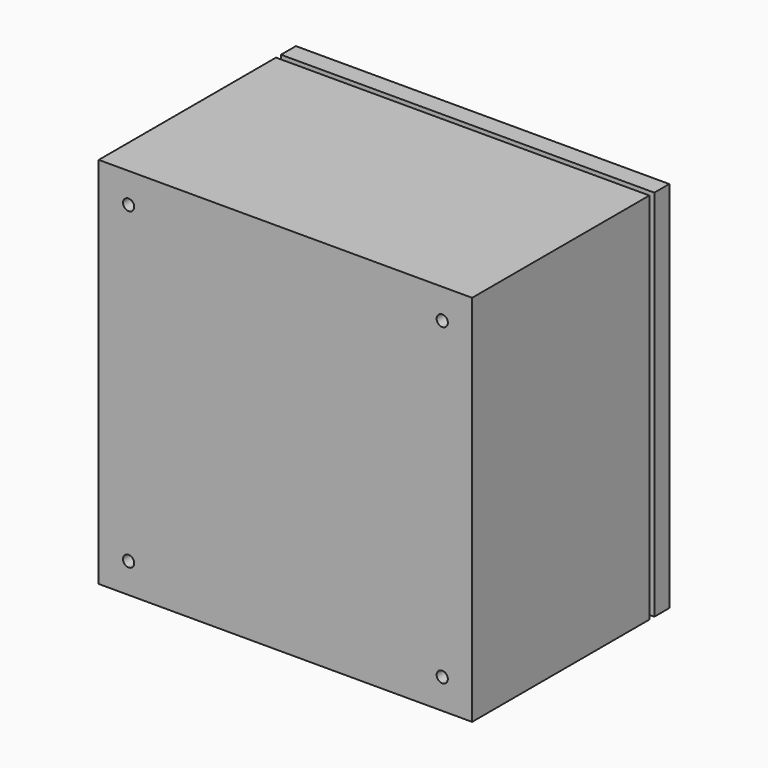
from build123d import *

# Parameters (mm, degrees)
F0_W     = 300
F0_H     = 300
F0_R     = 4.5
F1_DEPTH = 178
F2_W     = 15
F2_H     = 300
F3_DEPTH = 300


with BuildPart() as f1:
    # F0 (on Front) → F1 (new body)
    with BuildSketch(Plane.XZ):
        with Locations((150, 150)):
            Rectangle(F0_W, F0_H)
        with Locations((24, 24)):
            Circle(F0_R, mode=Mode.SUBTRACT)
        with Locations((276, 24)):
            Circle(F0_R, mode=Mode.SUBTRACT)
        with Locations((24, 276)):
            Circle(F0_R, mode=Mode.SUBTRACT)
        with Locations((276, 276)):
            Circle(F0_R, mode=Mode.SUBTRACT)
    extrude(amount=F1_DEPTH)


with BuildPart() as f3:
    # F2 (on Right) → F3 (new body)
    with BuildSketch(Plane.YZ):
        with Locations((12.5, 150)):
            Rectangle(F2_W, F2_H)
    extrude(amount=F3_DEPTH)


solid = Compound([f1.part, f3.part])
